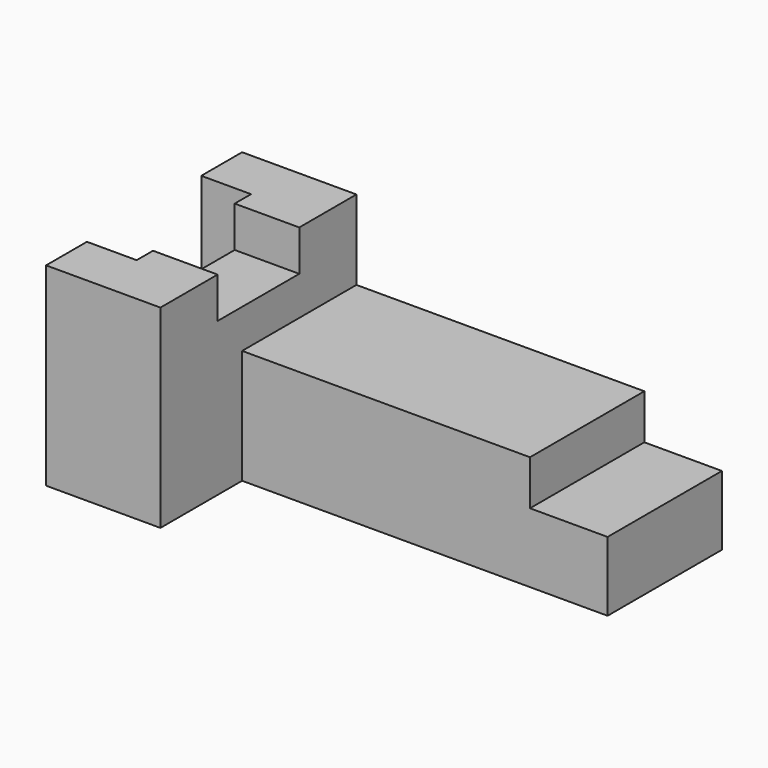
from build123d import *

# Parameters (mm, degrees)
F1_DEPTH = 60.96
F3_DEPTH = 35.56
F2_W     = 16.069296
F2_H     = 25.4
F4_DEPTH = 10.16
F5_DEPTH = 48.26


with BuildPart() as f1:
    # F0 (on Front) → F1 (new body)
    with BuildSketch(Plane.XZ):
        Polygon((-42.611507, 56.373797), (-71.059507, 56.373797), (-71.059507, 8.113797), (-42.611507, 8.113797), (-42.611507, 36.561797), align=None)
    extrude(amount=F1_DEPTH)

    # F2 (on face) → F4 (cut)
    with BuildSketch(Plane.XY.offset(56.373797)):
        with Locations((-50.646155, -30.48)):
            Rectangle(F2_W, F2_H)
    extrude(amount=-F4_DEPTH, mode=Mode.SUBTRACT)

    # F2 (on face) → F5 (cut)
    with BuildSketch(Plane.XY.offset(56.373797)):
        Polygon((-58.680803, -43.18), (-58.680803, -17.78), (-58.680803, -12.7), (-71.059507, -12.7), (-71.059507, -48.26), (-58.680803, -48.26), align=None)
    extrude(amount=-F5_DEPTH, mode=Mode.SUBTRACT)


with BuildPart() as f3:
    # F0 (on Front) → F3 (new body)
    with BuildSketch(Plane.XZ):
        Polygon((29.016493, 36.561797), (-42.611507, 36.561797), (-42.611507, 8.113797), (48.320493, 8.113797), (48.320493, 25.385797), (29.016493, 25.385797), align=None)
    extrude(amount=F3_DEPTH)


solid = Compound([f1.part, f3.part])
